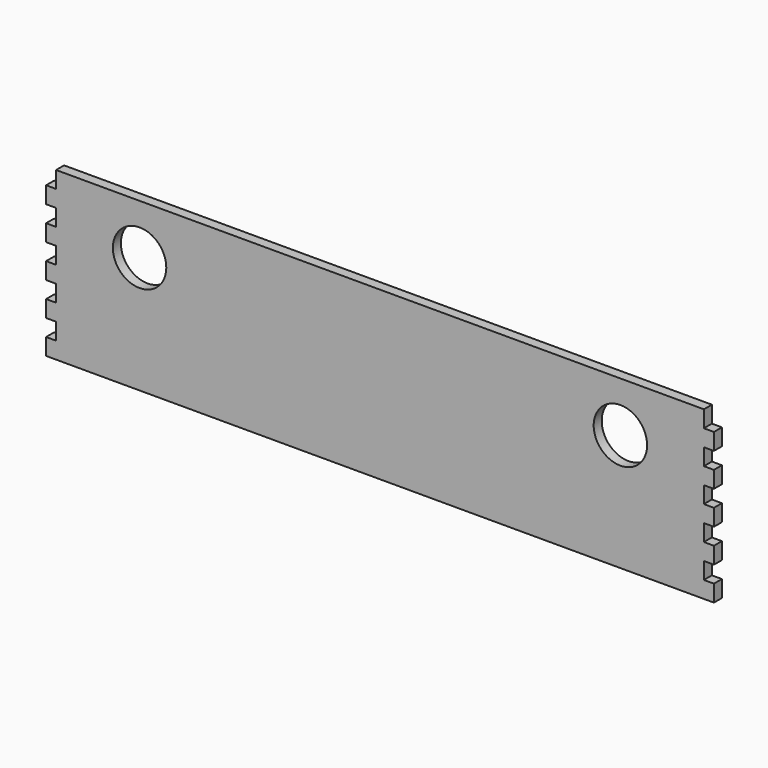
from build123d import *

# Parameters (mm, degrees)
F0_W     = 194
F0_H     = 50
F1_DEPTH = 3
F2_W     = 3
F2_H     = 5
F3_DEPTH = 3
F4_R     = 8
F5_DEPTH = 25


with BuildPart() as f1:
    # F0 (on Front) → F1 (new body)
    with BuildSketch(Plane.XZ):
        Rectangle(F0_W, F0_H)
    extrude(amount=F1_DEPTH)

    # F2 (on face) → F3 (join)
    with BuildSketch(Plane.XZ.offset(3)):
        with Locations((-98.5, 17.5)):
            Rectangle(F2_W, F2_H)
        with Locations((-98.5, 7.5)):
            Rectangle(F2_W, F2_H)
        with Locations((-98.5, -2.5)):
            Rectangle(F2_W, F2_H)
        with Locations((-98.5, -12.5)):
            Rectangle(F2_W, F2_H)
        with Locations((-98.5, -22.5)):
            Rectangle(F2_W, F2_H)
        with Locations((98.5, 7.5)):
            Rectangle(F2_W, F2_H)
        with Locations((98.5, 17.5)):
            Rectangle(F2_W, F2_H)
        with Locations((98.5, -2.5)):
            Rectangle(F2_W, F2_H)
        with Locations((98.5, -12.5)):
            Rectangle(F2_W, F2_H)
        with Locations((98.5, -22.5)):
            Rectangle(F2_W, F2_H)
    extrude(amount=-F3_DEPTH)

    # F4 (on face) → F5 (cut)
    with BuildSketch(Plane.XZ.offset(3)):
        with Locations((-72, 10)):
            Circle(F4_R)
        with Locations((72, 10)):
            Circle(F4_R)
    extrude(amount=-F5_DEPTH, mode=Mode.SUBTRACT)


solid = f1.part
